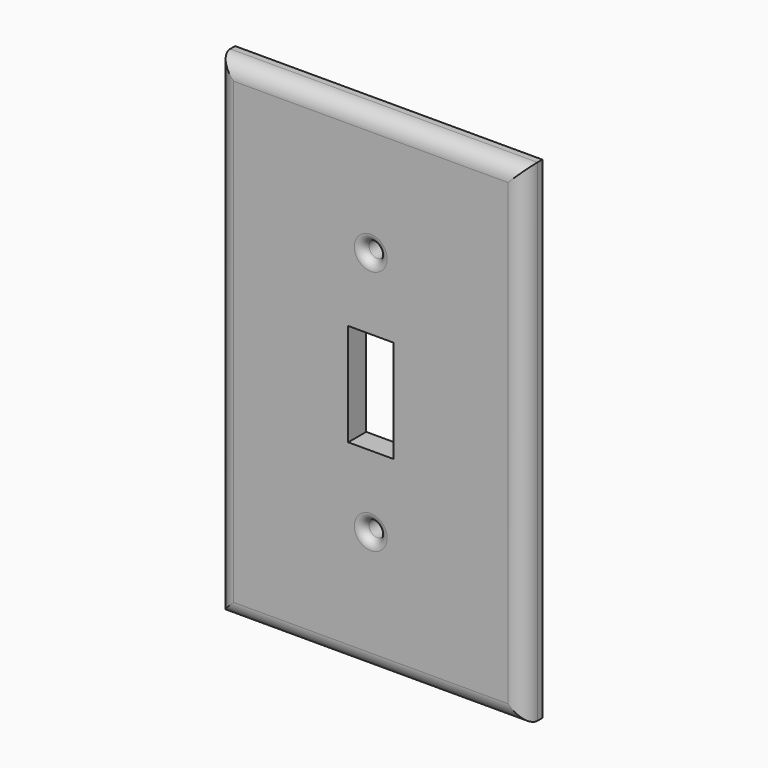
from build123d import *

# Parameters (mm, degrees)
F0_W     = 75
F0_H     = 120
F0_R     = 2
F0_W_2   = 11
F0_H_2   = 25
F1_DEPTH = 5.5
F2_R     = 4
F3_R     = 2


with BuildPart() as f1:
    # F0 (on Front) → F1 (new body)
    with BuildSketch(Plane.XZ):
        Rectangle(F0_W, F0_H)
        with Locations((0, -30)):
            Circle(F0_R, mode=Mode.SUBTRACT)
        Rectangle(F0_W_2, F0_H_2, mode=Mode.SUBTRACT)
        with Locations((0, 30)):
            Circle(F0_R, mode=Mode.SUBTRACT)
    extrude(amount=F1_DEPTH)

    # F2
    f2_edges = [f1.edges().sort_by_distance(p)[0] for p in [
        (-37.5, -5.5, 0),
        (0, -5.5, 60),
        (37.5, -5.5, 0),
        (0, -5.5, -60),
    ]]
    fillet(f2_edges, radius=F2_R)

    # F3
    f3_edges = [f1.edges().sort_by_distance(p)[0] for p in [
        (-2, -5.5, 30),
        (-2, -5.5, -30),
    ]]
    fillet(f3_edges, radius=F3_R)


solid = f1.part
